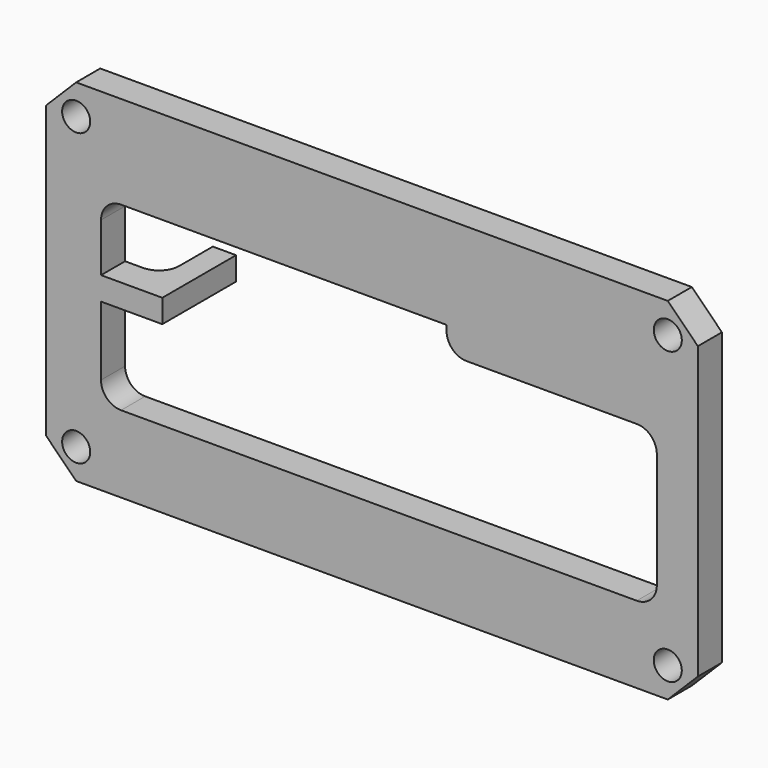
from build123d import *

# Parameters (mm, degrees)
SKETCH044_W     = 65
SKETCH044_H     = 35
PAD003_DEPTH    = 3
CHAMFER009_SIZE = 3
SKETCH054_W     = 2.32
SKETCH054_H     = 2.32
PAD004_DEPTH    = 6.2
FILLET_R        = 2
SKETCH055_R     = 1.4
POCKET007_DEPTH = 5


with BuildPart() as part:
    # Sketch044 → Pad003 (new body)
    with BuildSketch(Plane.XZ):
        with Locations((-0.83, 8.83)):
            Rectangle(SKETCH044_W, SKETCH044_H)
        Polygon((0, -1), (-27.85, -1), (-27.85, 7.89), (-21.74, 7.89), (-21.74, 10.21), (-27.85, 10.21), (-27.85, 17.05), (6.61, 17.05), (6.61, 14.52), (27.58, 14.52), (27.58, -1), align=None, mode=Mode.SUBTRACT)
    extrude(amount=PAD003_DEPTH)

    # Chamfer009
    chamfer009_edges = [part.edges().sort_by_distance(p)[0] for p in [
        (31.67, -1.5, 26.33),
        (31.67, -1.5, -8.67),
        (-33.33, -1.5, 26.33),
        (-33.33, -1.5, -8.67),
    ]]
    chamfer(chamfer009_edges, length=CHAMFER009_SIZE)

    # Sketch054 (on Face2 of Chamfer009) → Pad004 (join)
    with BuildSketch(Plane(origin=(0, 0, 0), x_dir=(1, 0, 0), z_dir=(0, 1, 0))):
        with Locations((-22.9, -9.05)):
            Rectangle(SKETCH054_W, SKETCH054_H)
    extrude(amount=PAD004_DEPTH)

    # Fillet
    fillet_edges = [part.edges().sort_by_distance(p)[0] for p in [
        (-27.85, -1.5, 17.05),
        (6.61, -1.5, 14.52),
        (27.58, -1.5, 14.52),
        (-27.85, -1.5, -1),
        (27.58, -1.5, -1),
        (-24.06, 0, 9.05),
    ]]
    fillet(fillet_edges, radius=FILLET_R)

    # Sketch055 (on Face26 of Fillet) → Pocket007 (cut)
    with BuildSketch(Plane.XZ.offset(3)):
        with Locations((-30.33, 23.33)):
            Circle(SKETCH055_R)
        with Locations((28.67, 23.33)):
            Circle(SKETCH055_R)
        with Locations((-30.33, -5.67)):
            Circle(SKETCH055_R)
        with Locations((28.67, -5.67)):
            Circle(SKETCH055_R)
    extrude(amount=-POCKET007_DEPTH, mode=Mode.SUBTRACT)


with BuildPart() as part_1:
    # Body013 placement: moved
    add(part.part.moved(Location((0, -51.5, 0))))


solid = part_1.part
